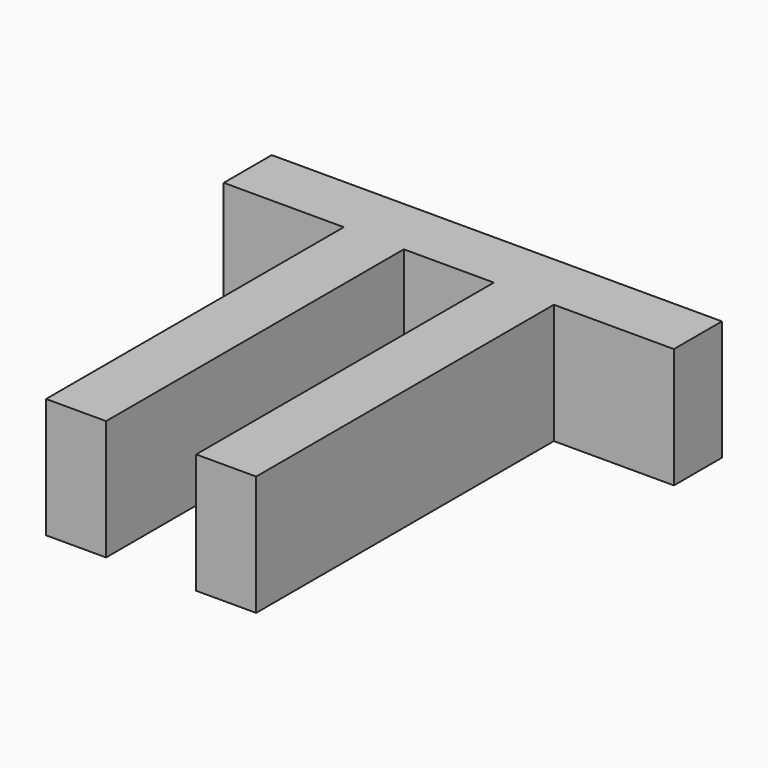
from build123d import *

# Parameters (mm, degrees)
F0_W     = 6.35
F0_H     = 6.35
F0_W_2   = 4.7625
F1_DEPTH = 3.175
F0_W_3   = 3.175
F2_DEPTH = 22.86


with BuildPart() as f1:
    # F0 (on Front) → F1 (new body)
    with BuildSketch(Plane.XZ):
        with Locations((-3.774909, 9.837384)):
            Rectangle(F0_W, F0_H)
        with Locations((4.956341, 9.837384)):
            Rectangle(F0_W_2, F0_H)
        with Locations((13.687591, 9.837384)):
            Rectangle(F0_W, F0_H)
    extrude(amount=F1_DEPTH)

    # F0 (on Front) → F2 (join)
    with BuildSketch(Plane.XZ):
        with Locations((0.987591, 9.837384)):
            Rectangle(F0_W_3, F0_H)
        with Locations((8.925091, 9.837384)):
            Rectangle(F0_W_3, F0_H)
    extrude(amount=F2_DEPTH)


solid = f1.part
